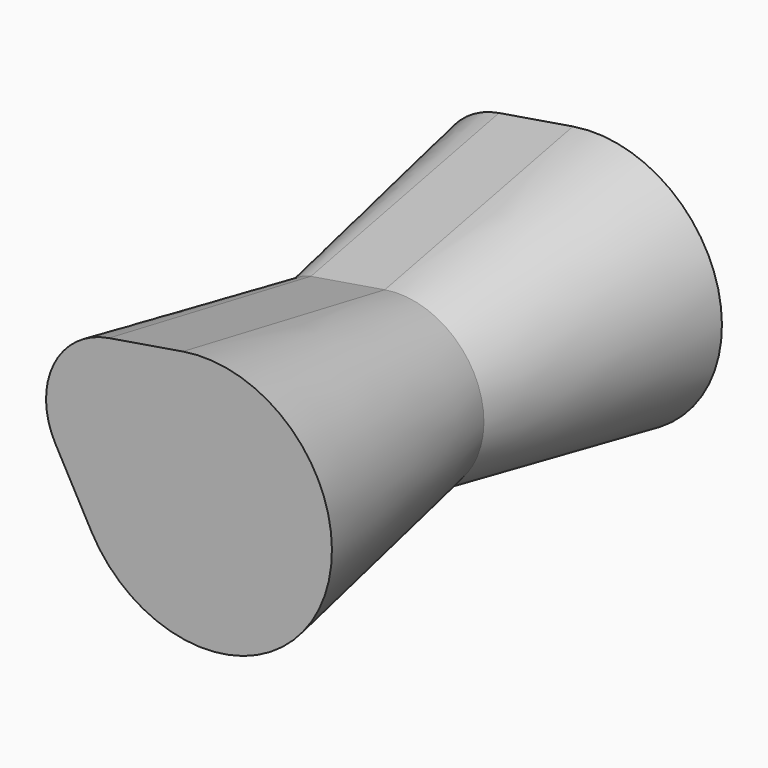
from build123d import *

# Parameters (mm, degrees)
F1_DEPTH = 127
F1_TAPER = -10


with BuildPart() as f1:
    # F0 (on Front) → F1 (new body, symmetric)
    with BuildSketch(Plane.XZ):
        with BuildLine():
            Line((9.4366056551, 31.9971223519), (-29.0780882326, 25.645936495))
            ThreePointArc((-29.0780882326, 25.645936495), (-41.424375402, 16.4380068606), (-41.0428613167, 1.0408895322))
            Line((-41.0428613167, 1.0408895322), (-22.2548710668, -33.1750516271))
            ThreePointArc((-22.2548710668, -33.1750516271), (56.5854242226, -31.2215247106), (9.4366056551, 31.9971223519))
        make_face()
    extrude(amount=F1_DEPTH, both=True, taper=F1_TAPER)


solid = f1.part
